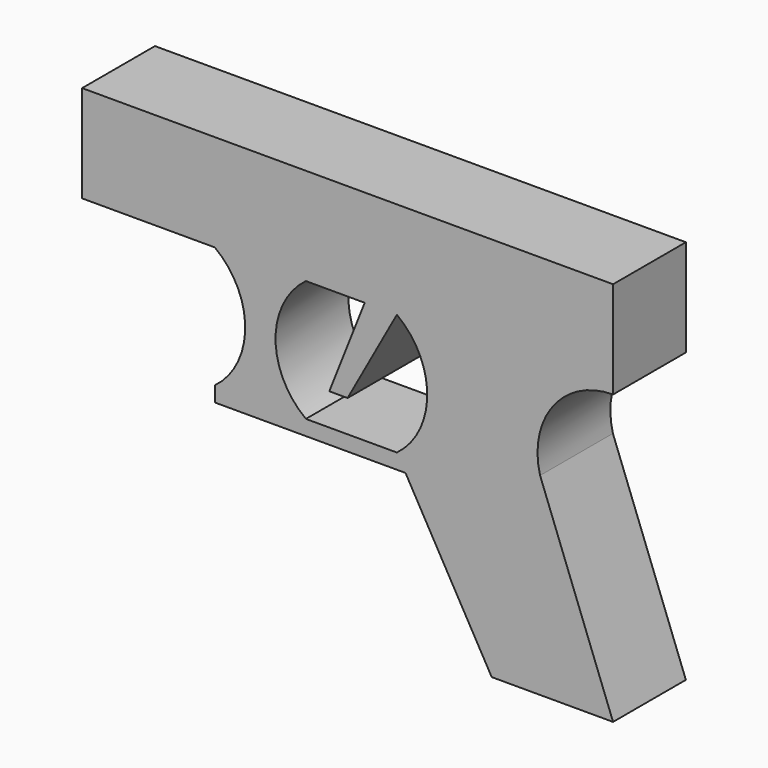
from build123d import *

# Parameters (mm, degrees)
F1_DEPTH = 30


with BuildPart() as f1:
    # F0 (on Front) → F1 (new body)
    with BuildSketch(Plane.XZ):
        with BuildLine():
            Line((-43.75, -56), (-13.75, -56))
            ThreePointArc((-13.75, -56), (-23.75, -36), (-13.75, -16))
            Line((-13.75, -16), (-43.75, -16))
            ThreePointArc((-43.75, -16), (-33.75, -36), (-43.75, -56))
        make_face()
        with BuildLine():
            ThreePointArc((63.4470964988, -47.311013487), (67.7584085468, -25.7287899082), (87.5, -16))
            Line((87.5, -16), (16.25, -16))
            ThreePointArc((16.25, -16), (26.25, -36), (16.25, -56))
            Line((16.25, -56), (19.0909090909, -56))
            Line((19.0909090909, -56), (19.0909090909, -61))
            Line((19.0909090909, -61), (47.5, -111))
            Line((47.5, -111), (87.5, -111))
            Line((87.5, -111), (63.4470964988, -47.311013487))
        make_face()
        Polygon((16.25, -16), (87.5, -16), (87.5, 16), (-87.5, 16), (-87.5, -16), (-43.75, -16), (-13.75, -16), (0, -16), (5.6284163147, -16), align=None)
        Polygon((0, -45.4765446484), (16.25, -16), (5.6284163147, -16), (-6.0181329027, -45.4765446484), align=None)
        Polygon((19.0909090909, -61), (16.25, -56), (-13.75, -56), (-43.75, -56), (-43.75, -61), align=None)
        Polygon((19.0909090909, -56), (16.25, -56), (19.0909090909, -61), align=None)
    extrude(amount=F1_DEPTH)


solid = f1.part
